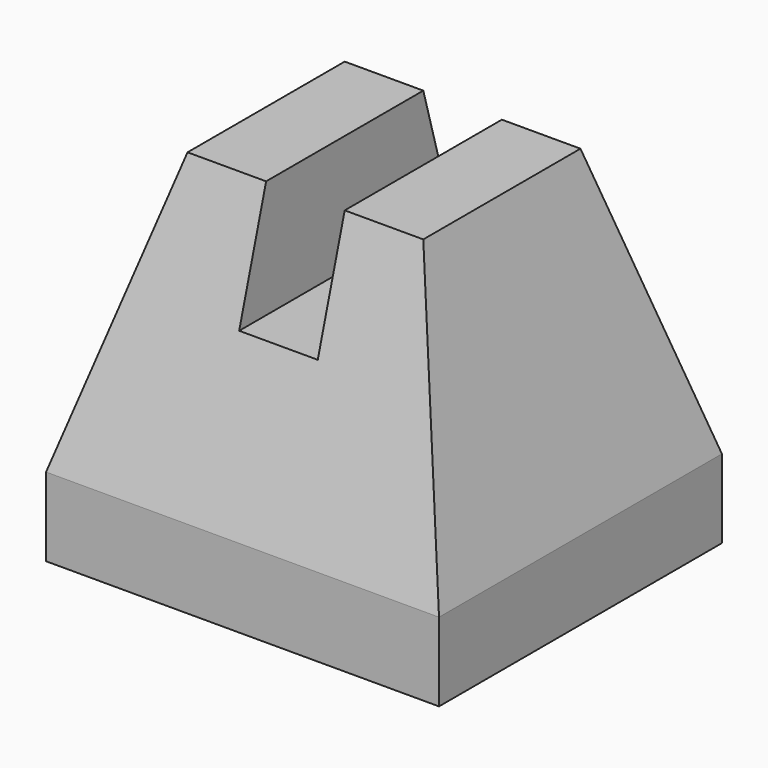
from build123d import *

# Parameters (mm, degrees)
F1_DEPTH = 10
F2_W     = 2
F2_H     = 3
F3_DEPTH = 9.001


with BuildPart() as f1:
    # F0 (on Right) → F1 (new body)
    with BuildSketch(Plane.YZ):
        Polygon((0, 2), (0, 0), (9, 0), (9, 2), (7, 9), (2, 9), align=None)
    extrude(amount=F1_DEPTH)

    # F2 (on face) → F3 (cut, through all)
    with BuildSketch(Plane.XZ):
        Polygon((8, 9), (10, 2), (10, 9), align=None)
        with Locations((5, 7.5)):
            Rectangle(F2_W, F2_H)
        Polygon((0, 9), (0, 2), (2, 9), align=None)
    extrude(amount=-F3_DEPTH, mode=Mode.SUBTRACT)


solid = f1.part
